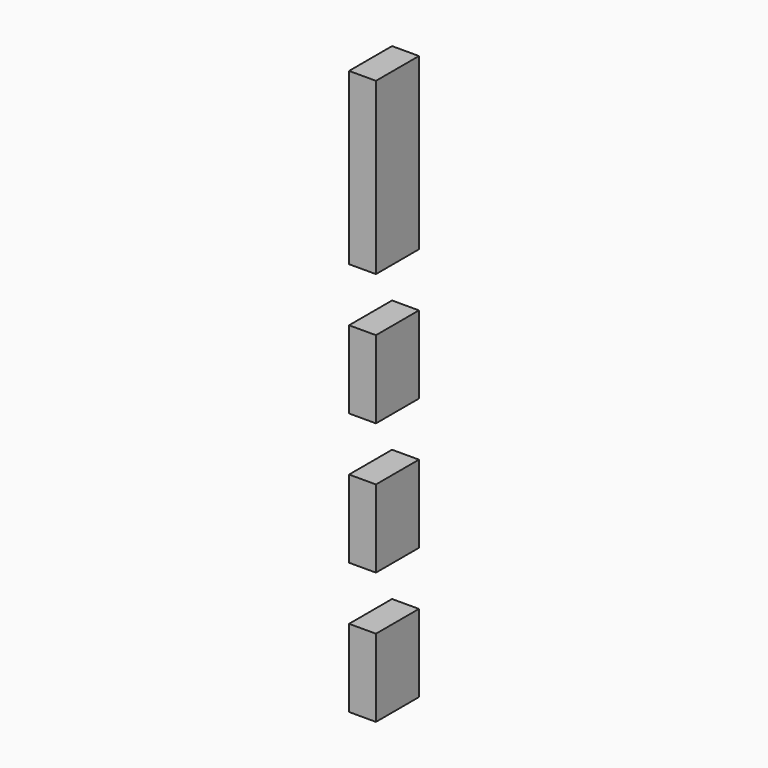
from build123d import *

# Parameters (mm, degrees)
F1_DEPTH = 38.1


with BuildPart() as f1:
    # F0 (on Front) → F1 (new body)
    with BuildSketch(Plane.XZ):
        Polygon((0, -158.7246), (0, -38.1), (-9.525, -38.1), (-19.05, -38.1), (-19.05, -158.7246), (-9.525, -158.7246), align=None)
        Polygon((0, -251.8664), (0, -196.8246), (-9.525, -196.8246), (-19.05, -196.8246), (-19.05, -251.8664), (-9.525, -251.8664), align=None)
        Polygon((0, -345.0082), (0, -289.9664), (-9.525, -289.9664), (-19.05, -289.9664), (-19.05, -345.0082), (-9.525, -345.0082), align=None)
        Polygon((0, -438.15), (0, -383.1082), (-9.525, -383.1082), (-19.05, -383.1082), (-19.05, -438.15), (-9.525, -438.15), align=None)
    extrude(amount=F1_DEPTH)


solid = f1.part
